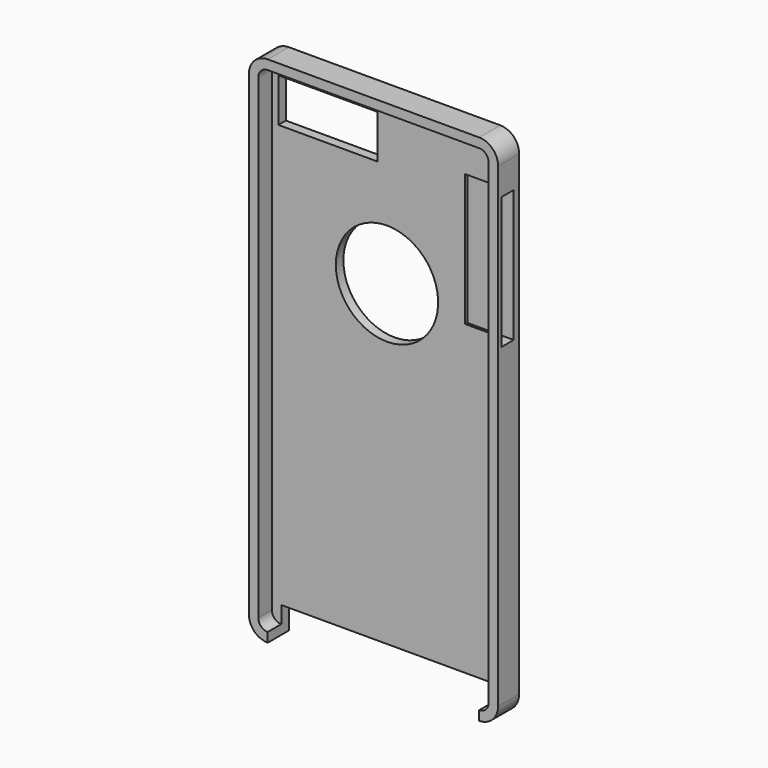
from build123d import *

# Parameters (mm, degrees)
F0_W      = 67.1
F0_H      = 138.3
F1_DEPTH  = 3.55
F2_R      = 5.08
F3_T      = -2.54
F1_FACE_W = 56.94
F1_FACE_H = 7.1
F4_DEPTH  = 7.1
F5_W      = 26.680329
F5_H      = 11.762295
F6_DEPTH  = 25
F7_R      = 13.773482
F8_DEPTH  = 12.5
F9_W      = 4.120178
F9_H      = 35.554205
F10_DEPTH = 12.5


with BuildPart() as f1:
    # F0 (on Front) → F1 (new body, symmetric)
    with BuildSketch(Plane.XZ):
        Rectangle(F0_W, F0_H)
    extrude(amount=F1_DEPTH, both=True)

    # F2
    f2_edges = [f1.edges().sort_by_distance(p)[0] for p in [
        (33.55, 0, 69.15),
        (-33.55, 0, 69.15),
        (-33.55, 0, -69.15),
        (33.55, 0, -69.15),
    ]]
    fillet(f2_edges, radius=F2_R)

    # F3
    f3_openings = [f1.faces().sort_by_distance(p)[0] for p in [
        (0, -3.55, 0),
    ]]
    offset(amount=F3_T, openings=f3_openings)

    # F1_face (on face) → F4 (cut)
    with BuildSketch(Plane(origin=(0, 0, -69.15), x_dir=(1, 0, 0), z_dir=(0, 0, -1))):
        Rectangle(F1_FACE_W, F1_FACE_H)
    extrude(amount=-F4_DEPTH, mode=Mode.SUBTRACT)

    # F5 (on Front) → F6 (cut)
    with BuildSketch(Plane.XZ):
        with Locations((-15.922133, 57.377054)):
            Rectangle(F5_W, F5_H)
    extrude(amount=-F6_DEPTH, mode=Mode.SUBTRACT)

    # F7 (on face) → F8 (cut, symmetric)
    with BuildSketch(Plane(origin=(0, 3.55, 0), x_dir=(-1, 0, 0), z_dir=(0, 1, 0))):
        with Locations((0, 23.381149)):
            Circle(F7_R)
    extrude(amount=F8_DEPTH, both=True, mode=Mode.SUBTRACT)

    # F9 (on face) → F10 (cut, symmetric)
    with BuildSketch(Plane.YZ.offset(33.55)):
        with Locations((-0.342509, 38.427914)):
            Rectangle(F9_W, F9_H)
    extrude(amount=F10_DEPTH, both=True, mode=Mode.SUBTRACT)


solid = f1.part
